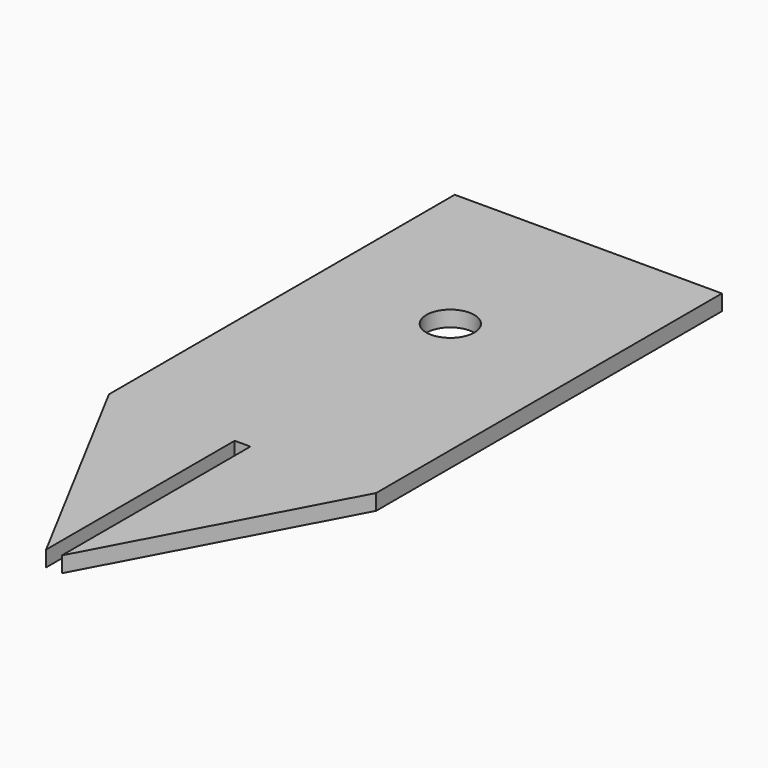
from build123d import *

# Parameters (mm, degrees)
SKETCH_R  = 3.05
PAD_DEPTH = 2


with BuildPart() as part:
    # Sketch → Pad (new body)
    with BuildSketch(Plane.XY):
        Polygon((-17, 55), (-17, 0), (-1, -30), (-1, 0), (1, 0), (1, -30), (17, 0), (17, 55), align=None)
        with Locations((0, 33.05)):
            Circle(SKETCH_R, mode=Mode.SUBTRACT)
    extrude(amount=PAD_DEPTH)


solid = part.part
